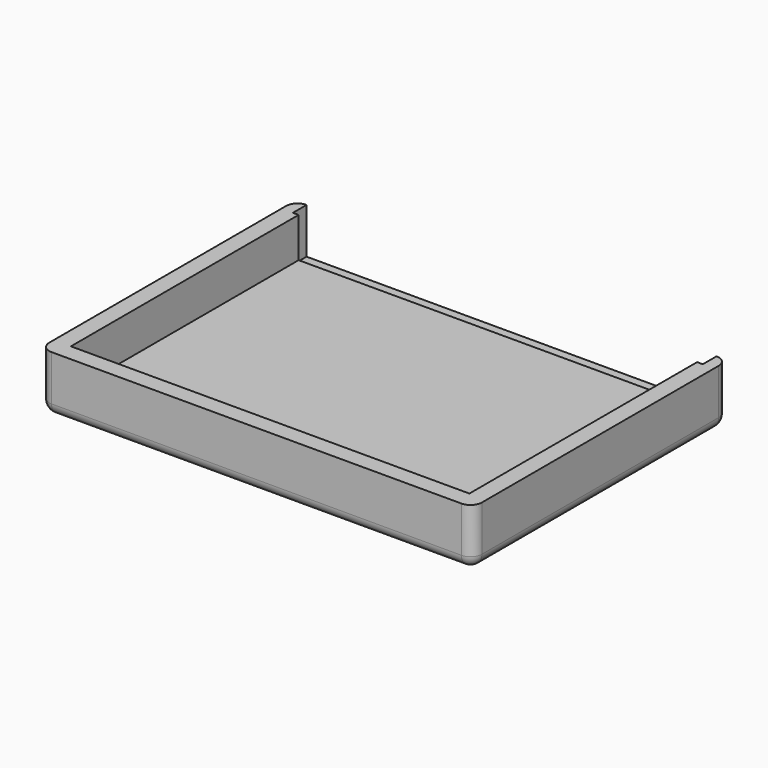
from build123d import *

# Parameters (mm, degrees)
F0_W      = 193.04
F0_H      = 142.24
F1_DEPTH  = 25.4
F2_T      = -7.62
F3_R      = 5.08
F1_FACE_W = 182.88
F1_FACE_H = 20.32
F4_DEPTH  = 7.62


with BuildPart() as f1:
    # F0 (on Top) → F1 (new body)
    with BuildSketch(Plane.XY):
        with Locations((3.226209, 17.656468)):
            Rectangle(F0_W, F0_H)
    extrude(amount=F1_DEPTH)

    # F2
    f2_openings = [f1.faces().sort_by_distance(p)[0] for p in [
        (3.226209, 17.656468, 25.4),
    ]]
    offset(amount=F2_T, openings=f2_openings)

    # F3
    f3_edges = [f1.edges().sort_by_distance(p)[0] for p in [
        (-93.293791, -53.463532, 12.7),
        (-93.293791, 88.776468, 12.7),
        (99.746209, 88.776468, 12.7),
        (99.746209, -53.463532, 12.7),
        (3.226209, 88.776468, 0),
        (99.746209, 17.656468, 0),
        (3.226209, -53.463532, 0),
        (-93.293791, 17.656468, 0),
    ]]
    fillet(f3_edges, radius=F3_R)

    # F1_face (on face) → F4 (cut)
    with BuildSketch(Plane(origin=(3.226209, 88.776468, 15.24), x_dir=(-1, 0, 0), z_dir=(0, 1, 0))):
        Rectangle(F1_FACE_W, F1_FACE_H)
    extrude(amount=-F4_DEPTH, mode=Mode.SUBTRACT)


solid = f1.part
